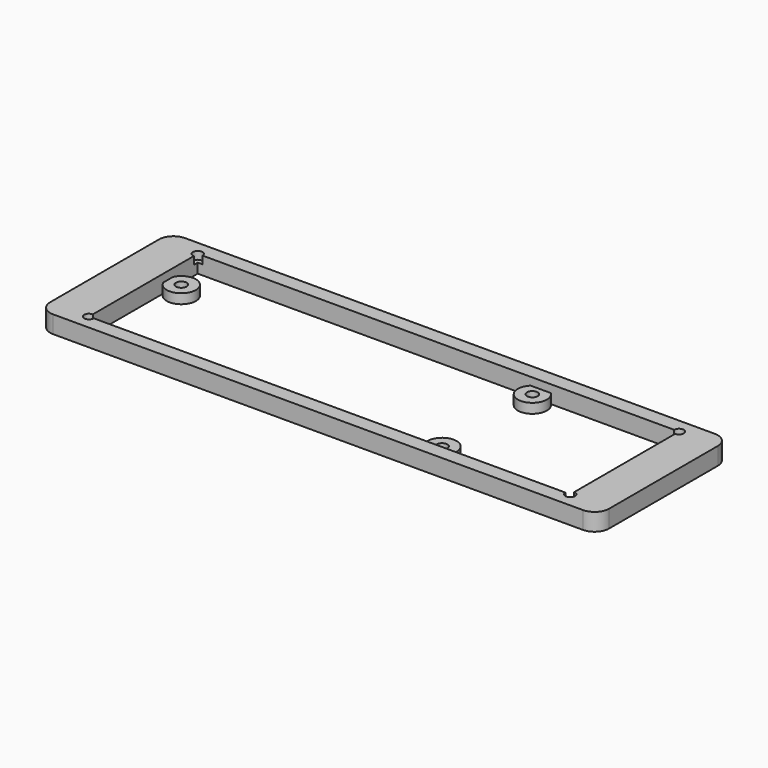
from build123d import *

# Parameters (mm, degrees)
SKETCH010_W     = 99.15
SKETCH010_H     = 28
PAD005_DEPTH    = 3.6
SKETCH011_R     = 3
SKETCH011_R_2   = 1.1
PAD006_DEPTH    = 2
SKETCH015_R     = 1
POCKET002_DEPTH = 5


with BuildPart() as part:
    # Sketch010 → Pad005 (new body)
    with BuildSketch(Plane.XY):
        with BuildLine():
            Line((0, -3), (109.15, -3))
            ThreePointArc((109.15, -3), (111.27132, -2.12132), (112.15, 0))
            Line((112.15, 0), (112.15, 28))
            ThreePointArc((112.15, 28), (111.27132, 30.12132), (109.15, 31))
            Line((109.15, 31), (0, 31))
            ThreePointArc((0, 31), (-2.12132, 30.12132), (-3, 28))
            Line((-3, 28), (-3, 0))
            ThreePointArc((-3, 0), (-2.12132, -2.12132), (0, -3))
        make_face()
        with Locations((54.575, 14)):
            Rectangle(SKETCH010_W, SKETCH010_H, mode=Mode.SUBTRACT)
    extrude(amount=PAD005_DEPTH)

    # Sketch011 → Pad006 (join)
    with BuildSketch(Plane.XY):
        with Locations((75.675, 25.83)):
            Circle(SKETCH011_R)
        with Locations((75.675, 25.83)):
            Circle(SKETCH011_R_2, mode=Mode.SUBTRACT)
        with Locations((75.675, 2.5746)):
            Circle(SKETCH011_R)
        with Locations((75.675, 2.5746)):
            Circle(SKETCH011_R_2, mode=Mode.SUBTRACT)
        with Locations((7.73, 20.36)):
            Circle(SKETCH011_R)
        with Locations((7.73, 20.36)):
            Circle(SKETCH011_R_2, mode=Mode.SUBTRACT)
    extrude(amount=PAD006_DEPTH)

    # Sketch015 → Pocket002 (cut)
    with BuildSketch(Plane.XY.offset(2)):
        with Locations((5, 28)):
            Circle(SKETCH015_R)
        with Locations((104.15, 28)):
            Circle(SKETCH015_R)
        with Locations((104.15, 0)):
            Circle(SKETCH015_R)
        with Locations((5, 0)):
            Circle(SKETCH015_R)
    extrude(amount=POCKET002_DEPTH, mode=Mode.SUBTRACT)


solid = part.part
